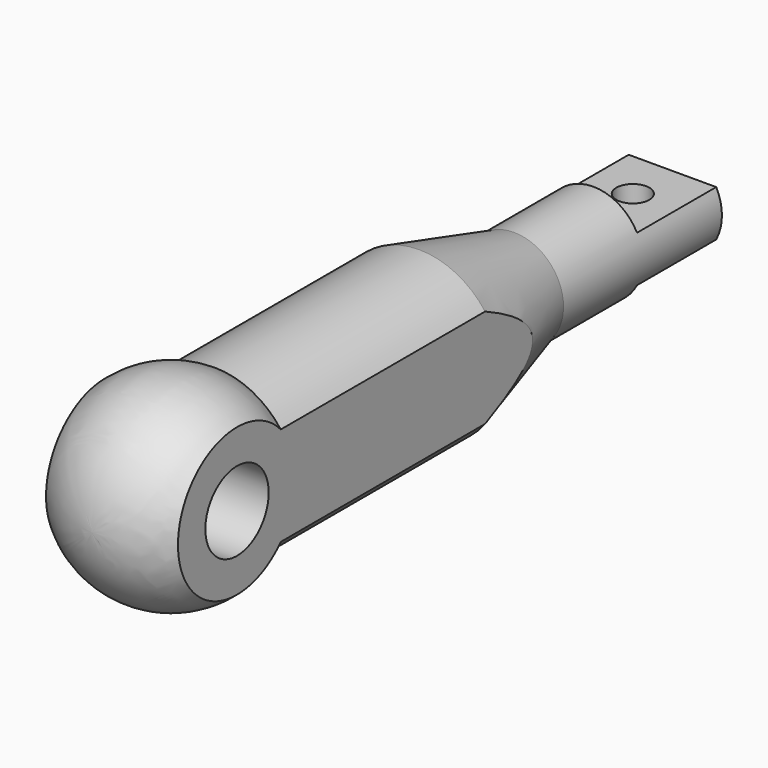
from build123d import *

# Parameters (mm, degrees)
F0_W      = 15
F0_H      = 4
F2_R      = 6
F4_DEPTH  = 15.001
F5_DEPTH  = 15.001
F6_R      = 2.5
F7_DEPTH  = 15.001
F8_DEPTH  = 15.001
F9_W      = 13.846156
F9_H      = 58.461541
F9_W_2    = 11.538462
F9_H_2    = 60.000002
F10_DEPTH = 110.001
F11_W     = 51.043225
F11_H     = 14.301966
F11_W_2   = 51.536393
F11_H_2   = 13.315624
F12_DEPTH = 15


with BuildPart() as f1:
    # F0 (on Right) → F1 (revolve)
    with BuildSketch(Plane.YZ):
        with BuildLine():
            Line((-110, 0), (-95, 0))
            Line((-95, 0), (-95, 12.5))
            Line((-95, 12.5), (-86.708438, 12.5))
            ThreePointArc((-86.708438, 12.5), (-102.093186, 13.21691), (-110, 0))
        make_face()
        Polygon((-95, 0), (0, 0), (0, 3.5), (-15, 3.5), (-15, 7.5), (-30, 7.5), (-48, 12.5), (-86.708438, 12.5), (-95, 12.5), align=None)
    revolve(axis=Axis((0, -47.5, 0), (0, 1, 0)))

    # F0 (on Right) → F3 (revolve)
    with BuildSketch(Plane.YZ):
        Polygon((-95, 0), (0, 0), (0, 3.5), (-15, 3.5), (-15, 7.5), (-30, 7.5), (-48, 12.5), (-86.708438, 12.5), (-95, 12.5), align=None)
        with Locations((-7.5, 5.5)):
            Rectangle(F0_W, F0_H)
        with BuildLine():
            Line((-110, 0), (-95, 0))
            Line((-95, 0), (-95, 12.5))
            Line((-95, 12.5), (-86.708438, 12.5))
            ThreePointArc((-86.708438, 12.5), (-102.093186, 13.21691), (-110, 0))
        make_face()
    revolve(axis=Axis((0, -47.5, 0), (0, 1, 0)))

    # F2 (on Right) → F4 (cut, through all)
    with BuildSketch(Plane.YZ):
        with Locations((-95, 0)):
            Circle(F2_R)
    extrude(amount=F4_DEPTH, mode=Mode.SUBTRACT)

    # F2 (on Right) → F5 (cut, through all)
    with BuildSketch(Plane.YZ):
        with Locations((-95, 0)):
            Circle(F2_R)
    extrude(amount=-F5_DEPTH, mode=Mode.SUBTRACT)

    # F6 (on Top) → F7 (cut, through all)
    with BuildSketch(Plane.XY):
        with Locations((0, -7.5)):
            Circle(F6_R)
    extrude(amount=-F7_DEPTH, mode=Mode.SUBTRACT)

    # F6 (on Top) → F8 (cut, through all)
    with BuildSketch(Plane.XY):
        with Locations((0, -7.5)):
            Circle(F6_R)
    extrude(amount=F8_DEPTH, mode=Mode.SUBTRACT)

    # F9 (on Front) → F10 (cut, through all)
    with BuildSketch(Plane.XZ):
        with Locations((-16.923078, -6.056333)):
            Rectangle(F9_W, F9_H)
        with Locations((15.769231, -5.287102)):
            Rectangle(F9_W_2, F9_H_2)
    extrude(amount=F10_DEPTH, mode=Mode.SUBTRACT)

    # F11 (on face) → F12 (cut)
    with BuildSketch(Plane(origin=(0, 0, 0), x_dir=(-1, 0, 0), z_dir=(0, 1, 0))):
        with Locations((0.795001, -10.650983)):
            Rectangle(F11_W, F11_H)
        with Locations((0.301828, 10.157812)):
            Rectangle(F11_W_2, F11_H_2)
    extrude(amount=-F12_DEPTH, mode=Mode.SUBTRACT)


solid = f1.part
